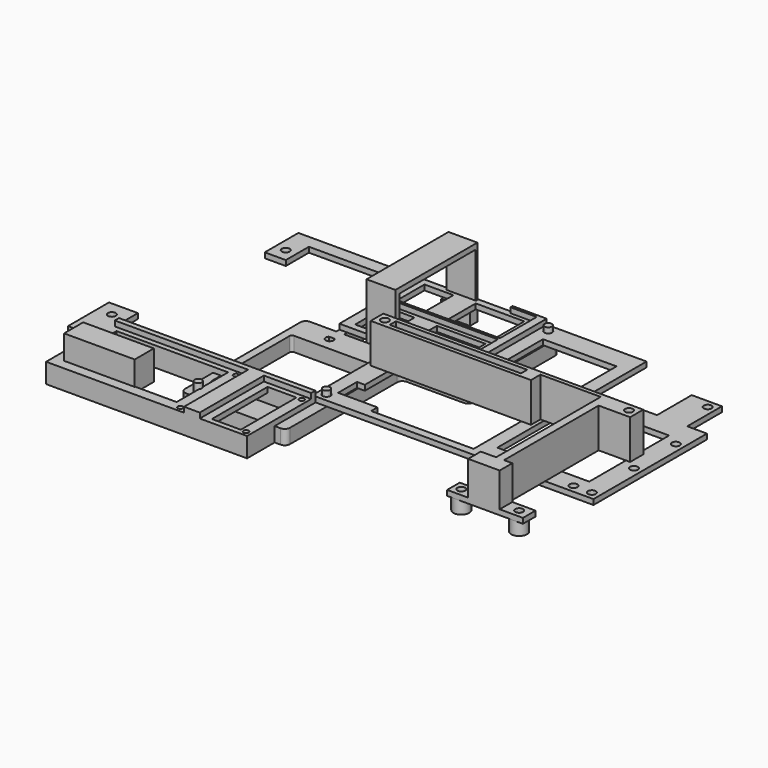
from build123d import *

# Parameters (mm, degrees)
SKETCH008_W      = 24.5
SKETCH008_H      = 6.7
EXTRUDE009_DEPTH = 10
SKETCH009_W      = 26.9
SKETCH009_H      = 9.1
EXTRUDE008_DEPTH = 11.2
SKETCH011_R      = 1.5
SKETCH011_W      = 35
SKETCH011_H      = 38
EXTRUDE012_DEPTH = 2
SKETCH012_R      = 2.5
EXTRUDE011_DEPTH = 5.5
SKETCH016_W      = 32.5
SKETCH016_H      = 6.5
EXTRUDE019_DEPTH = 2
EXTRUDE020_DEPTH = 4
SKETCH_W         = 76.5
SKETCH_H         = 6.5
EXTRUDE018_DEPTH = 2
EXTRUDE016_DEPTH = 4
SKETCH013_R      = 1.5
SKETCH013_R_2    = 1
SKETCH013_W      = 11
SKETCH013_H      = 26.5
SKETCH013_W_2    = 42.5
SKETCH013_H_2    = 24.5
EXTRUDE013_DEPTH = 2
EXTRUDE017_DEPTH = 4
EXTRUDE026_DEPTH = 11
EXTRUDE025_DEPTH = 3
SKETCH017_R      = 1.5
SKETCH017_W      = 18.5
SKETCH017_H      = 14.5
SKETCH017_W_2    = 11
EXTRUDE024_DEPTH = 2
SKETCH026_W      = 10
SKETCH026_H      = 5
EXTRUDE031_DEPTH = 10
SKETCH025_W      = 10
SKETCH025_H      = 15.450207
SKETCH025_H_2    = 14.464775
EXTRUDE030_DEPTH = 20
SKETCH024_R      = 1.5
SKETCH024_R_2    = 3
EXTRUDE029_DEPTH = 6
SKETCH023_R      = 1.5
SKETCH023_W      = 50
SKETCH023_H      = 3
EXTRUDE_DEPTH    = 15
SKETCH027_R      = 1.4
EXTRUDE032_DEPTH = 6
EXTRUDE027_DEPTH = 5.5
SKETCH021_R      = 1.4
EXTRUDE028_DEPTH = 4
FILLET_R         = 2
SKETCH028_R      = 1.5
EXTRUDE033_DEPTH = 5.5
FILLET001_1_R    = 2
FILLET001_2_R    = 1


with BuildPart() as extrude009:
    # Sketch008 → Extrude009 (new body)
    with BuildSketch(Plane.XY):
        with Locations((17.25, 8.35)):
            Rectangle(SKETCH008_W, SKETCH008_H)
    extrude(amount=EXTRUDE009_DEPTH)


with BuildPart() as cut002_old:
    # Sketch009 → Extrude008 (new body)
    with BuildSketch(Plane.XY):
        with Locations((17.25, 8.35)):
            Rectangle(SKETCH009_W, SKETCH009_H)
    extrude(amount=EXTRUDE008_DEPTH)

    # Cut002: cut Extrude009
    add(extrude009.part, mode=Mode.SUBTRACT)


with BuildPart() as extrude012:
    # Sketch011 → Extrude012 (new body)
    with BuildSketch(Plane.XY):
        Polygon((101.25, 111.6), (101.25, 73.6), (75.25, 73.6), (75.25, 32.6), (182.25, 32.6), (182.25, 86.6), (174.75, 86.6), (174.75, 103.1), (163.25, 103.1), (163.25, 86.6), (139.25, 86.6), (139.25, 111.6), align=None)
        with Locations((172.25, 35.6)):
            Circle(SKETCH011_R, mode=Mode.SUBTRACT)
        with Locations((104.25, 108.6)):
            Circle(SKETCH011_R, mode=Mode.SUBTRACT)
        with Locations((179.25, 35.6)):
            Circle(SKETCH011_R, mode=Mode.SUBTRACT)
        with Locations((179.25, 55.6)):
            Circle(SKETCH011_R, mode=Mode.SUBTRACT)
        with Locations((179.25, 75.6)):
            Circle(SKETCH011_R, mode=Mode.SUBTRACT)
        with Locations((78.25, 35.6)):
            Circle(SKETCH011_R, mode=Mode.SUBTRACT)
        with Locations((171.75, 100.1)):
            Circle(SKETCH011_R, mode=Mode.SUBTRACT)
        with Locations((78.25, 70.6)):
            Circle(SKETCH011_R, mode=Mode.SUBTRACT)
        Polygon((134.25, 103.6), (106.25, 103.6), (106.25, 65.6), (83.25, 65.6), (83.25, 47.6), (80.25, 47.6), (80.25, 38.6), (95.25, 38.6), (95.25, 35.6), (134.25, 35.6), align=None, mode=Mode.SUBTRACT)
        with Locations((156.75, 59.6)):
            Rectangle(SKETCH011_W, SKETCH011_H, mode=Mode.SUBTRACT)
    extrude(amount=EXTRUDE012_DEPTH)


with BuildPart() as fusion002_old:
    # Sketch012 → Extrude011 (new body)
    with BuildSketch(Plane.XY):
        with Locations((104.25, 108.6)):
            Circle(SKETCH012_R)
        with Locations((78.25, 71.6)):
            Circle(SKETCH012_R)
        with Locations((78.25, 35.6)):
            Circle(SKETCH012_R)
        with Locations((139.25, 82.6)):
            Circle(SKETCH012_R)
        with Locations((139.25, 36.6)):
            Circle(SKETCH012_R)
    extrude(amount=-EXTRUDE011_DEPTH)

    # Fusion002: union Extrude012
    add(extrude012.part)


with BuildPart() as extrude019:
    # Sketch016 → Extrude019 (new body)
    with BuildSketch(Plane.YZ):
        with Locations((16.25, -2.25)):
            Rectangle(SKETCH016_W, SKETCH016_H)
    extrude(amount=EXTRUDE019_DEPTH)


with BuildPart() as extrude020:
    # Sketch016 → Extrude020 (new body)
    with BuildSketch(Plane.YZ):
        with Locations((16.25, -2.25)):
            Rectangle(SKETCH016_W, SKETCH016_H)
    extrude(amount=-EXTRUDE020_DEPTH)


with BuildPart() as extrude020_1:
    # Extrude020 placement: moved
    add(extrude020.part.moved(Location((76.5, 0, 0))))


with BuildPart() as extrude018:
    # Sketch → Extrude018 (new body)
    with BuildSketch(Plane.XZ):
        with Locations((38.25, -2.25)):
            Rectangle(SKETCH_W, SKETCH_H)
    extrude(amount=-EXTRUDE018_DEPTH)


with BuildPart() as extrude016:
    # Sketch015 → Extrude016 (new body)
    with BuildSketch(Plane.XY):
        Polygon((1.75, 32.5), (76.5, 32.5), (76.5, 30.5), (58.5, 30.5), (58.5, 0), (52.5, 0), (52.5, 30.5), (1.75, 30.5), align=None)
    extrude(amount=EXTRUDE016_DEPTH)


with BuildPart() as fusion004:
    # Sketch013 → Extrude013 (new body)
    with BuildSketch(Plane.XY):
        Polygon((0, 0), (76.5, 0), (76.5, 32.5), (1.75, 32.5), (1.75, 41.5), (-9.25, 41.5), (-9.25, 22), (0, 22), align=None)
        with Locations((-3.75, 36)):
            Circle(SKETCH013_R, mode=Mode.SUBTRACT)
        with Locations((74.5, 28.5)):
            Circle(SKETCH013_R_2, mode=Mode.SUBTRACT)
        with Locations((74.5, 2)):
            Circle(SKETCH013_R_2, mode=Mode.SUBTRACT)
        with Locations((49.5, 28.5)):
            Circle(SKETCH013_R_2, mode=Mode.SUBTRACT)
        with Locations((49.5, 2)):
            Circle(SKETCH013_R_2, mode=Mode.SUBTRACT)
        with Locations((67, 15.25)):
            Rectangle(SKETCH013_W, SKETCH013_H, mode=Mode.SUBTRACT)
        with Locations((25.25, 16.25)):
            Rectangle(SKETCH013_W_2, SKETCH013_H_2, mode=Mode.SUBTRACT)
    extrude(amount=EXTRUDE013_DEPTH)

    # Fusion003: union Extrude016
    add(extrude016.part)

    # Fusion004: union Extrude018
    add(extrude018.part)


with BuildPart() as fusion006_old:
    # Sketch → Extrude017 (new body)
    with BuildSketch(Plane.XZ):
        with Locations((38.25, -2.25)):
            Rectangle(SKETCH_W, SKETCH_H)
    extrude(amount=EXTRUDE017_DEPTH)


with BuildPart() as fusion006_old_1:
    # Extrude017 placement: moved
    add(fusion006_old.part.moved(Location((0, 32.5, 0))))

    # Fusion005: union Fusion004
    add(fusion004.part)

    # Fusion006: union Extrude019, Extrude020
    add(extrude019.part)
    add(extrude020_1.part)


with BuildPart() as extrude026:
    # Sketch020 → Extrude026 (new body)
    with BuildSketch(Plane.YZ):
        Polygon((75.457824, 19), (111.457824, 19), (111.457824, 0), (108.957824, 0), (108.957824, -5.5), (112.457824, -5.5), (112.457824, 21), (73.457824, 21), (73.457824, -5.5), (77.957824, -5.5), (77.957824, 0), (75.457824, 0), align=None)
    extrude(amount=EXTRUDE026_DEPTH)


with BuildPart() as extrude026_1:
    # Extrude026 placement: moved
    add(extrude026.part.moved(Location((64, -1, 0))))


with BuildPart() as extrude025:
    # Sketch019 → Extrude025 (new body)
    with BuildSketch(Plane.XY):
        Polygon((101.25, 111.6), (101.25, 73.6), (88.25, 73.6), (88.25, 74.6), (98.25, 74.6), (98.25, 92.1), (58.25, 92.1), (58.25, 93.1), (98.25, 93.1), (98.25, 110.6), (88.25, 110.6), (88.25, 111.6), align=None)
    extrude(amount=EXTRUDE025_DEPTH)


with BuildPart() as extrude025_1:
    # Extrude025 placement: moved
    add(extrude025.part.moved(Location((0, 0, 1))))


with BuildPart() as fusion008:
    # Sketch017 → Extrude024 (new body)
    with BuildSketch(Plane.XY):
        Polygon((6.75, 111.6), (6.75, 95.6), (14.75, 95.6), (14.75, 106.6), (52.75, 106.6), (52.75, 73.6), (63.75, 73.6), (63.75, 74.6), (75.25, 74.6), (75.25, 73.6), (101.25, 73.6), (101.25, 111.6), (75.25, 111.6), (75.25, 110.6), (63.75, 110.6), (63.75, 111.6), align=None)
        with Locations((10.75, 100.6)):
            Circle(SKETCH017_R, mode=Mode.SUBTRACT)
        with Locations((85.5, 101.85)):
            Rectangle(SKETCH017_W, SKETCH017_H, mode=Mode.SUBTRACT)
        with Locations((62.25, 101.85)):
            Rectangle(SKETCH017_W_2, SKETCH017_H, mode=Mode.SUBTRACT)
        with Locations((85.5, 83.35)):
            Rectangle(SKETCH017_W, SKETCH017_H, mode=Mode.SUBTRACT)
        with Locations((62.25, 83.35)):
            Rectangle(SKETCH017_W_2, SKETCH017_H, mode=Mode.SUBTRACT)
    extrude(amount=EXTRUDE024_DEPTH)

    # Fusion008: union Extrude025
    add(extrude025_1.part)


with BuildPart() as fusion009:
    # Fusion009 base: copy of Extrude012
    add(extrude012.part)

    # Fusion009: union Fusion008
    add(fusion008.part)


with BuildPart() as extrude031:
    # Sketch026 → Extrude031 (new body)
    with BuildSketch(Plane.XZ):
        with Locations((80, -4.5)):
            Rectangle(SKETCH026_W, SKETCH026_H)
    extrude(amount=-EXTRUDE031_DEPTH)


with BuildPart() as extrude031_1:
    # Extrude031 placement: moved
    add(extrude031.part.moved(Location((0, 56, 0))))


with BuildPart() as extrude030:
    # Sketch025 → Extrude030 (new body)
    with BuildSketch(Plane.XZ):
        with Locations((150, 9.725103)):
            Rectangle(SKETCH025_W, SKETCH025_H)
        with Locations((172, 9.232387)):
            Rectangle(SKETCH025_W, SKETCH025_H_2)
    extrude(amount=-EXTRUDE030_DEPTH)


with BuildPart() as extrude029:
    # Sketch024 → Extrude029 (new body)
    with BuildSketch(Plane.XY):
        with Locations((79.9, 61.31)):
            Circle(SKETCH024_R)
        with Locations((172.85, 61.31)):
            Circle(SKETCH024_R)
        with Locations((150, 10.06)):
            Circle(SKETCH024_R_2)
        with Locations((150, 10.06)):
            Circle(SKETCH024_R, mode=Mode.SUBTRACT)
        with Locations((172, 10.06)):
            Circle(SKETCH024_R_2)
        with Locations((172, 10.06)):
            Circle(SKETCH024_R, mode=Mode.SUBTRACT)
    extrude(amount=-EXTRUDE029_DEPTH)


with BuildPart() as extrude029_1:
    # Extrude029 placement: moved
    add(extrude029.part.moved(Location((0, 0, 1))))


with BuildPart() as cut003:
    # Sketch023 → Extrude (new body)
    with BuildSketch(Plane.XY):
        Polygon((76.9, 64.31), (76.9, 58.31), (82.9, 58.31), (137.9, 58.31), (137.9, 62.81), (160.85, 62.81), (160.85, 13.06), (147, 13.06), (147, 7.06), (175.85, 7.06), (175.85, 13.06), (163.85, 13.06), (163.85, 58.06), (175.85, 58.06), (175.85, 64.31), (132.9, 64.31), (82.9, 64.31), align=None)
        with Locations((79.9, 61.31)):
            Circle(SKETCH023_R, mode=Mode.SUBTRACT)
        with Locations((172.85, 61.31)):
            Circle(SKETCH023_R, mode=Mode.SUBTRACT)
        with Locations((172, 10.06)):
            Circle(SKETCH023_R, mode=Mode.SUBTRACT)
        with Locations((150, 10.06)):
            Circle(SKETCH023_R, mode=Mode.SUBTRACT)
        with Locations((107.9, 61.31)):
            Rectangle(SKETCH023_W, SKETCH023_H, mode=Mode.SUBTRACT)
    extrude(amount=EXTRUDE_DEPTH)

    # Fusion: union Extrude029
    add(extrude029_1.part)

    # Cut: cut Extrude030
    add(extrude030.part, mode=Mode.SUBTRACT)

    # Cut003: cut Extrude031
    add(extrude031_1.part, mode=Mode.SUBTRACT)


with BuildPart() as cut003_1:
    # Cut003 placement: moved
    add(cut003.part.moved(Location((0, 0, 2))))


with BuildPart() as extrude032:
    # Sketch027 → Extrude032 (new body)
    with BuildSketch(Plane.XY):
        with Locations((45.45, 70.1)):
            Circle(SKETCH027_R)
        with Locations((71.45, 15.6)):
            Circle(SKETCH027_R)
    extrude(amount=-EXTRUDE032_DEPTH)


with BuildPart() as extrude027:
    # Sketch022 → Extrude027 (new body)
    with BuildSketch(Plane.XY):
        with BuildLine():
            Line((106.75, 108.6), (106.75, 70.600022))
            ThreePointArc((104.25, 68.1), (106.017775, 68.832241), (106.75, 70.600022))
            Line((80.75, 68.1), (104.25, 68.1))
            Line((80.75, 68.1), (80.75, 35.6))
            Line((80.75, 13.1), (80.75, 35.6))
            Line((40.75, 13.1), (80.75, 13.1))
            Line((40.75, 72.1), (40.75, 13.1))
            Line((52.75, 72.1), (40.75, 72.1))
            Line((52.75, 92.6), (52.75, 72.1))
            ThreePointArc((54.25, 94.100003), (53.189339, 93.660662), (52.75, 92.6))
            Line((54.25, 94.100003), (101.75, 94.100003))
            Line((101.75, 108.599983), (101.75, 94.100003))
            ThreePointArc((106.75, 108.6), (104.249992, 111.100003), (101.75, 108.599983))
        make_face()
        with BuildLine():
            Line((78.25, 73.1), (101.75, 73.1))
            Line((101.75, 91.1), (101.75, 73.1))
            Line((55.75, 91.1), (101.75, 91.1))
            Line((55.75, 91.1), (55.75, 72.1))
            Line((55.75, 72.1), (76.25, 72.1))
            ThreePointArc((78.25, 73.1), (77.131966, 72.836068), (76.25, 72.1))
        make_face(mode=Mode.SUBTRACT)
        Polygon((43.75, 18.1), (75.75, 18.1), (75.75, 35.6), (75.75, 68.1), (43.75, 68.1), align=None, mode=Mode.SUBTRACT)
    extrude(amount=-EXTRUDE027_DEPTH)


with BuildPart() as extrude028:
    # Sketch021 → Extrude028 (new body)
    with BuildSketch(Plane.XY):
        with Locations((104.25, 108.6)):
            Circle(SKETCH021_R)
        with Locations((78.25, 35.6)):
            Circle(SKETCH021_R)
        with Locations((78.25, 70.6)):
            Circle(SKETCH021_R)
        with Locations((71.45, 70.1)):
            Circle(SKETCH021_R)
        with Locations((45.45, 15.6)):
            Circle(SKETCH021_R)
    extrude(amount=EXTRUDE028_DEPTH)


with BuildPart() as cut004_old:
    # Fusion010 base: copy of Extrude028
    add(extrude028.part)

    # Fusion010: union Extrude027
    add(extrude027.part)

    # Fillet
    fillet_edges = [cut004_old.edges().sort_by_distance(p)[0] for p in [
        (80.75, 13.1, -2.75),
        (40.75, 13.1, -2.75),
        (40.75, 72.1, -2.75),
    ]]
    fillet(fillet_edges, radius=FILLET_R)

    # Cut004: cut Extrude032
    add(extrude032.part, mode=Mode.SUBTRACT)


with BuildPart() as extrude033:
    # Sketch028 → Extrude033 (new body)
    with BuildSketch(Plane.XY):
        with BuildLine():
            Line((106.75, 108.6), (106.75, 70.6))
            ThreePointArc((104.25, 68.1), (106.017767, 68.832233), (106.75, 70.6))
            Line((80.75, 68.1), (104.25, 68.1))
            Line((80.75, 68.1), (80.75, 35.6))
            Line((80.75, 13.1), (80.75, 35.6))
            Line((40.75, 13.1), (80.75, 13.1))
            Line((40.75, 72.1), (40.75, 13.1))
            Line((52.75, 72.1), (40.75, 72.1))
            Line((52.75, 92.6), (52.75, 72.1))
            ThreePointArc((54.25, 94.1), (53.18934, 93.66066), (52.75, 92.6))
            Line((54.25, 94.1), (101.75, 94.1))
            Line((101.75, 108.6), (101.75, 94.1))
            ThreePointArc((106.75, 108.6), (104.25, 111.1), (101.75, 108.6))
        make_face()
        with Locations((54.25, 67.1)):
            Circle(SKETCH028_R, mode=Mode.SUBTRACT)
        with Locations((54.25, 18.1)):
            Circle(SKETCH028_R, mode=Mode.SUBTRACT)
        with BuildLine():
            Line((78.25, 73.1), (101.75, 73.1))
            Line((101.75, 91.1), (101.75, 73.1))
            Line((55.75, 91.1), (101.75, 91.1))
            Line((55.75, 91.1), (55.75, 72.1))
            Line((55.75, 72.1), (76.25, 72.1))
            ThreePointArc((78.25, 73.1), (77.131966, 72.836068), (76.25, 72.1))
        make_face(mode=Mode.SUBTRACT)
        Polygon((43.75, 23.1), (75.75, 23.1), (75.75, 35.6), (75.75, 62.1), (43.75, 62.1), align=None, mode=Mode.SUBTRACT)
    extrude(amount=-EXTRUDE033_DEPTH)


with BuildPart() as fillet001:
    # Fusion011 base: copy of Extrude028
    add(extrude028.part)

    # Fusion011: union Extrude033
    add(extrude033.part)

    # Fillet001 1
    fillet001_1_edges = [fillet001.edges().sort_by_distance(p)[0] for p in [
        (80.75, 68.1, -2.75),
        (80.75, 13.1, -2.75),
        (40.75, 13.1, -2.75),
        (40.75, 72.1, -2.75),
    ]]
    fillet(fillet001_1_edges, radius=FILLET001_1_R)

    # Fillet001 2
    fillet001_2_edges = [fillet001.edges().sort_by_distance(p)[0] for p in [
        (43.75, 62.1, -2.75),
        (43.75, 23.1, -2.75),
        (75.75, 23.1, -2.75),
        (75.75, 62.1, -2.75),
    ]]
    fillet(fillet001_2_edges, radius=FILLET001_2_R)


solid = Compound([cut002_old.part, fusion002_old.part, fusion006_old_1.part, extrude026_1.part, fusion009.part, cut003_1.part, cut004_old.part, fillet001.part])
